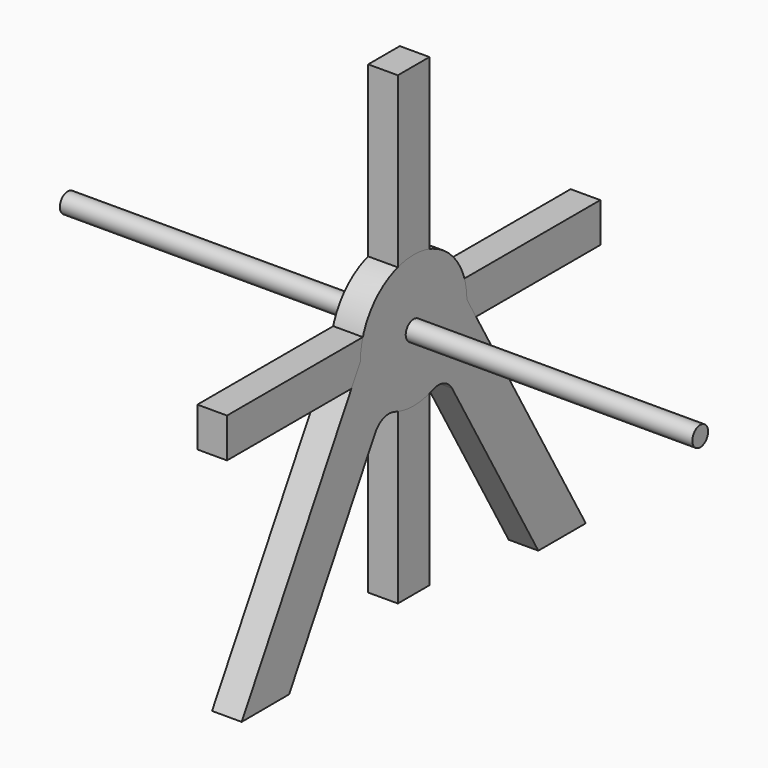
from build123d import *

# Parameters (mm, degrees)
F1_R     = 6.35
F2_DEPTH = 19.05
F3_R     = 6.35
F4_DEPTH = 203.2
F5_R     = 6.35
F6_DEPTH = 19.05


with BuildPart() as f2:
    # F1 (on Right) → F2 (new body)
    with BuildSketch(Plane.YZ):
        with BuildLine():
            Line((-12.7, 149.403349), (-12.7, 21.997045))
            ThreePointArc((-12.7, 21.997045), (-17.960512, 17.960512), (-21.997045, 12.7))
            Line((-21.997045, 12.7), (-149.904549, 12.7))
            Line((-149.904549, 12.7), (-149.904549, -12.7))
            Line((-149.904549, -12.7), (-21.997045, -12.7))
            ThreePointArc((-21.997045, -12.7), (-17.960512, -17.960512), (-12.7, -21.997045))
            Line((-12.7, -21.997045), (-12.7, -149.403349))
            Line((-12.7, -149.403349), (12.7, -149.403349))
            Line((12.7, -149.403349), (12.7, -21.997045))
            ThreePointArc((12.7, -21.997045), (17.960512, -17.960512), (21.997045, -12.7))
            Line((21.997045, -12.7), (149.904549, -12.7))
            Line((149.904549, -12.7), (149.904549, 12.7))
            Line((149.904549, 12.7), (21.997045, 12.7))
            ThreePointArc((21.997045, 12.7), (17.960512, 17.960512), (12.7, 21.997045))
            Line((12.7, 21.997045), (12.7, 149.403349))
            Line((12.7, 149.403349), (-12.7, 149.403349))
        make_face()
        Circle(F1_R, mode=Mode.SUBTRACT)
    extrude(amount=F2_DEPTH)


with BuildPart() as f4:
    # F3 (on face) → F4 (new body, symmetric)
    with BuildSketch(Plane.YZ):
        Circle(F3_R)
    extrude(amount=F4_DEPTH, both=True)


with BuildPart() as f6:
    # F5 (on Right) → F6 (new body)
    with BuildSketch(Plane.YZ):
        with BuildLine():
            ThreePointArc((-30.82442, -45.447008), (-24.070998, -39.8275), (-15.286024, -39.936166))
            ThreePointArc((-15.286024, -39.936166), (0.02572, -42.761656), (15.334055, -39.917749))
            ThreePointArc((15.334055, -39.917749), (24.126093, -39.801061), (30.886715, -45.42312))
            Line((30.886715, -45.42312), (100.155028, -165.399358))
            Line((100.155028, -165.399358), (138.255028, -165.399358))
            Line((138.255028, -165.399358), (42.761664, 0))
            ThreePointArc((42.761664, 0), (-0.11923, 42.761498), (-42.760999, -0.238459))
            Line((-42.760999, -0.238459), (-138.116688, -165.399358))
            Line((-138.116688, -165.399358), (-100.016688, -165.291533))
            Line((-100.016688, -165.291533), (-30.82442, -45.447008))
        make_face()
        Circle(F5_R, mode=Mode.SUBTRACT)
    extrude(amount=F6_DEPTH)


solid = Compound([f2.part, f4.part, f6.part])
